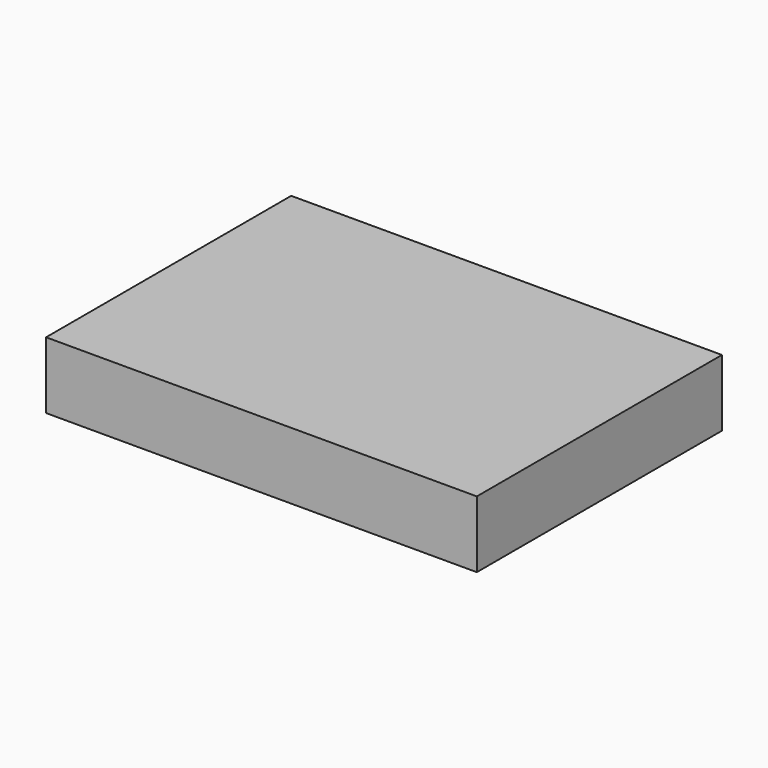
from build123d import *

# Parameters (mm, degrees)
F0_W     = 71
F0_H     = 11
F1_DEPTH = 25.25
F2_T     = -0.5


with BuildPart() as f1:
    # F0 (on Front) → F1 (new body, symmetric)
    with BuildSketch(Plane.XZ):
        Rectangle(F0_W, F0_H)
    extrude(amount=F1_DEPTH, both=True)

    # F2
    f2_openings = [f1.faces().sort_by_distance(p)[0] for p in [
        (-35.5, 0, 0),
    ]]
    offset(amount=F2_T, openings=f2_openings)


solid = f1.part
